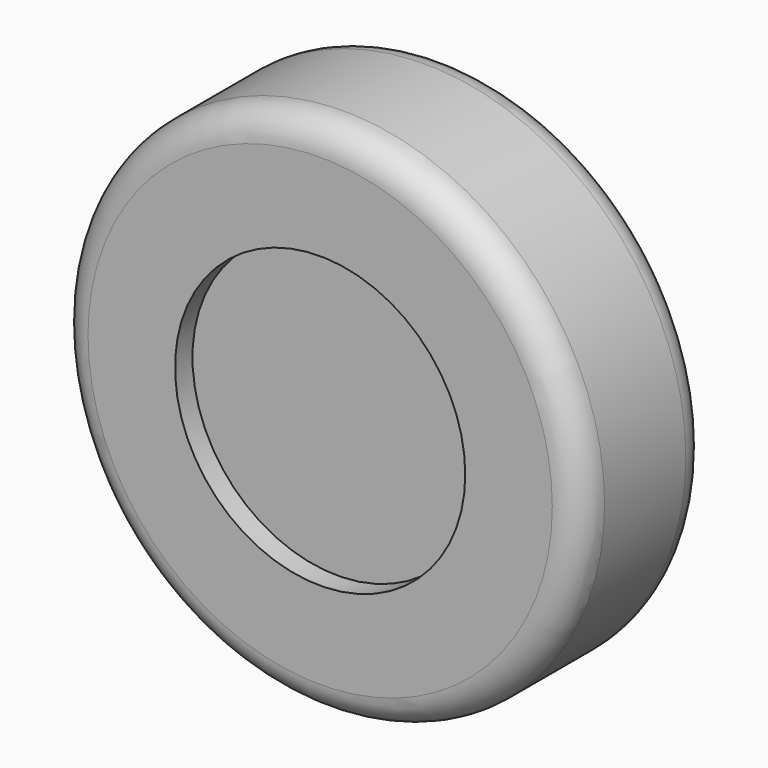
from build123d import *

# Parameters (mm, degrees)
F0_R     = 25.4
F1_DEPTH = 10.16
F2_R     = 45.72
F2_R_2   = 25.4
F3_DEPTH = 13.97
F4_R     = 5.08


with BuildPart() as f1:
    # F0 (on Front) → F1 (new body, symmetric)
    with BuildSketch(Plane.XZ):
        Circle(F0_R)
    extrude(amount=F1_DEPTH, both=True)

    # F2 (on Front) → F3 (join, symmetric)
    with BuildSketch(Plane.XZ):
        Circle(F2_R)
        Circle(F2_R_2, mode=Mode.SUBTRACT)
    extrude(amount=F3_DEPTH, both=True)

    # F4
    f4_edges = [f1.edges().sort_by_distance(p)[0] for p in [
        (-45.72, 13.97, 0),
        (-45.72, -13.97, 0),
    ]]
    fillet(f4_edges, radius=F4_R)


solid = f1.part
